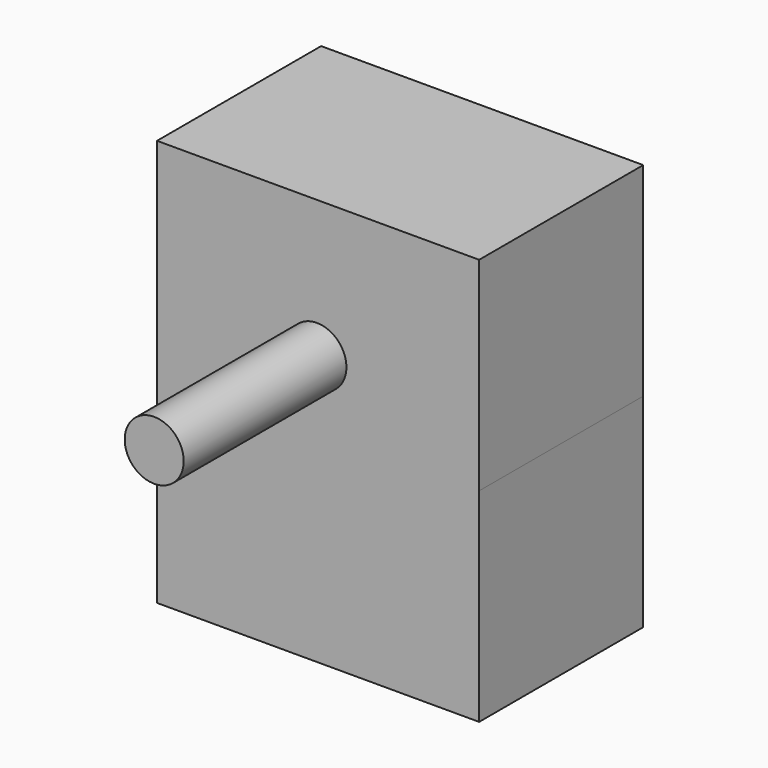
from build123d import *

# Parameters (mm, degrees)
F0_W      = 40.221851
F0_H      = 25.612304
F1_DEPTH  = 25.4
F1_FACE_W = 40.22185
F1_FACE_H = 25.612304
F2_DEPTH  = 25.4
F3_R      = 3.681994
F4_DEPTH  = 25.4


with BuildPart() as f1:
    # F0 (on Top) → F1 (new body)
    with BuildSketch(Plane.XY):
        with Locations((4.765831, -2.674487)):
            Rectangle(F0_W, F0_H)
    extrude(amount=F1_DEPTH)

    # F1_face (on face) → F2 (join)
    with BuildSketch(Plane(origin=(4.765831, -2.674487, 25.4), x_dir=(1, 0, 0), z_dir=(0, 0, 1))):
        Rectangle(F1_FACE_W, F1_FACE_H)
    extrude(amount=F2_DEPTH)

    # F3 (on face) → F4 (join)
    with BuildSketch(Plane.XZ.offset(15.480639)):
        with Locations((4.6224, 33.59535)):
            Circle(F3_R)
    extrude(amount=F4_DEPTH)


solid = f1.part
